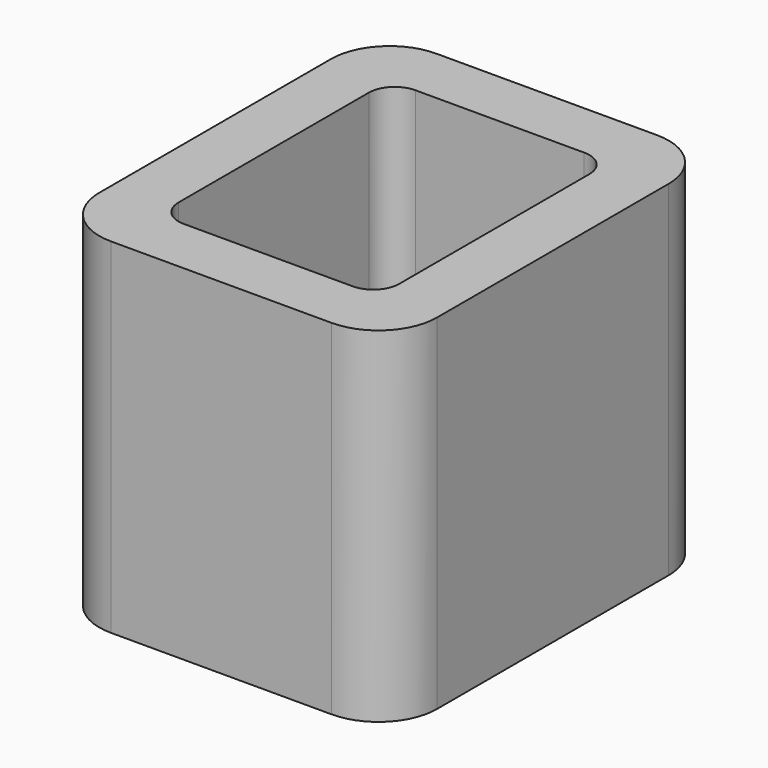
from build123d import *

# Parameters (mm, degrees)
F0_W     = 1960
F0_H     = 2360
F1_DEPTH = 2000
F2_T     = -340
F3_R     = 340
F4_R     = 150


with BuildPart() as f1:
    # F0 (on Top) → F1 (new body)
    with BuildSketch(Plane.XY):
        Rectangle(F0_W, F0_H)
        Rectangle(F0_W, F0_H)
    extrude(amount=F1_DEPTH)

    # F2
    f2_openings = [f1.faces().sort_by_distance(p)[0] for p in [
        (0, 0, 2000),
    ]]
    offset(amount=F2_T, openings=f2_openings)

    # F3
    f3_edges = [f1.edges().sort_by_distance(p)[0] for p in [
        (-980, 1180, 1000),
        (980, 1180, 1000),
        (-980, -1180, 1000),
        (980, -1180, 1000),
    ]]
    fillet(f3_edges, radius=F3_R)

    # F4
    f4_edges = [f1.edges().sort_by_distance(p)[0] for p in [
        (640, 840, 1170),
        (640, -840, 1170),
        (-640, -840, 1170),
        (-640, 840, 1170),
    ]]
    fillet(f4_edges, radius=F4_R)


solid = f1.part
